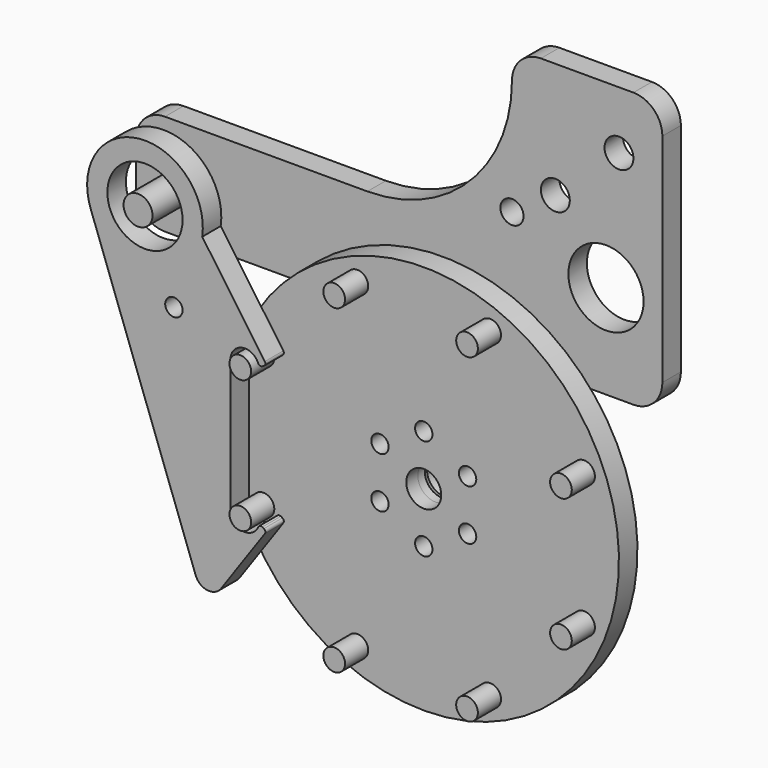
from build123d import *

# Parameters (mm, degrees)
F0_R          = 67.5
F0_R_2        = 6.05
F1_DEPTH      = 5
F1_DEPTH_BACK = 3
F2_R          = 3.75
F3_DEPTH      = 10
F6_ANGLE      = 22.5
F5_R          = 5
F5_R_2        = 4
F5_R_3        = 13
F7_DEPTH      = 8
F9_R          = 3
F9_R_2        = 13
F10_DEPTH     = 8
F13_R         = 3
F14_DEPTH     = 25
F15_R         = 5
F16_DEPTH     = 29


with BuildPart() as f1:
    # F0 (on Front) → F1 (new body, two sides)
    with BuildSketch(Plane.XZ) as f1_sk:
        Circle(F0_R)
        Circle(F0_R_2, mode=Mode.SUBTRACT)
    extrude(amount=F1_DEPTH)
    extrude(f1_sk.sketch, amount=-F1_DEPTH_BACK)

    # F2 (on face) → F3 (join)
    with BuildSketch(Plane.XZ.offset(5)):
        with Locations((0, 60)):
            Circle(F2_R)
        with Locations((-42.426407, 42.426407)):
            Circle(F2_R)
        with Locations((-60, 0)):
            Circle(F2_R)
        with Locations((-42.426407, -42.426407)):
            Circle(F2_R)
        with Locations((0, -60)):
            Circle(F2_R)
        with Locations((42.426407, -42.426407)):
            Circle(F2_R)
        with Locations((60, 0)):
            Circle(F2_R)
        with Locations((42.426407, 42.426407)):
            Circle(F2_R)
    extrude(amount=F3_DEPTH)


with BuildPart() as f1_1:
    # F6: moved
    add(f1.part.rotate(Axis((0, 22.649996, 0), (0, 1, 0)), F6_ANGLE))


with BuildPart() as f7:
    # F5 (on face) → F7 (new body)
    with BuildSketch(Plane.XZ.offset(5)):
        with BuildLine():
            ThreePointArc((22.5, 127.5), (7.855339, 92.144661), (-27.5, 77.5))
            Line((-27.5, 77.5), (-97.5, 77.5))
            ThreePointArc((-97.5, 77.5), (-104.571068, 74.571068), (-107.5, 67.5))
            Line((-107.5, 67.5), (-107.5, 52.5))
            ThreePointArc((-107.5, 52.5), (-104.571068, 45.428932), (-97.5, 42.5))
            Line((-97.5, 42.5), (-75.623611, 42.5))
            Line((-75.623611, 42.5), (64.5, 42.5))
            ThreePointArc((64.5, 42.5), (71.571068, 45.428932), (74.5, 52.5))
            Line((74.5, 52.5), (74.5, 127.5))
            ThreePointArc((74.5, 127.5), (71.571068, 134.571068), (64.5, 137.5))
            Line((64.5, 137.5), (32.5, 137.5))
            ThreePointArc((32.5, 137.5), (25.428932, 134.571068), (22.5, 127.5))
        make_face()
        with Locations((-90, 60)):
            Circle(F5_R, mode=Mode.SUBTRACT)
        with Locations((22.5, 87.5)):
            Circle(F5_R_2, mode=Mode.SUBTRACT)
        with Locations((55, 75)):
            Circle(F5_R_3, mode=Mode.SUBTRACT)
        with Locations((37.5, 97.5)):
            Circle(F5_R, mode=Mode.SUBTRACT)
        with Locations((59.5, 117.5)):
            Circle(F5_R, mode=Mode.SUBTRACT)
    extrude(amount=-F7_DEPTH)


with BuildPart() as f7_1:
    # F8: moved
    add(f7.part.moved(Location((0, 10, 0))))


with BuildPart() as f10:
    # F9 (on face) → F10 (new body)
    with BuildSketch(Plane.XZ.offset(5)):
        with BuildLine():
            Line((-48.554099, 26.213094), (-70.206198, 57.135495))
            ThreePointArc((-70.206198, 57.135495), (-92.049858, 79.894675), (-108.793852, 53.159597))
            Line((-108.793852, 53.159597), (-72.467141, -46.647223))
            ThreePointArc((-72.467141, -46.647223), (-68.421309, -49.894346), (-63.672917, -47.805004))
            Line((-63.672917, -47.805004), (-48.554099, -26.213094))
            ThreePointArc((-48.554099, -26.213094), (-48.396955, -25.423078), (-48.873251, -24.773493))
            Line((-48.873251, -24.773493), (-49.418088, -24.458931))
            ThreePointArc((-49.418088, -24.458931), (-50.233711, -24.376072), (-50.837202, -24.930965))
            ThreePointArc((-50.837202, -24.930965), (-56.438294, -27.858855), (-60.432772, -22.961006))
            Line((-60.432772, -22.961006), (-60.432772, 22.961006))
            ThreePointArc((-60.432772, 22.961006), (-56.438294, 27.858855), (-50.837202, 24.930965))
            ThreePointArc((-50.837202, 24.930965), (-50.233711, 24.376072), (-49.418088, 24.458931))
            Line((-49.418088, 24.458931), (-48.873251, 24.773493))
            ThreePointArc((-48.873251, 24.773493), (-48.396955, 25.423078), (-48.554099, 26.213094))
        make_face()
        with Locations((-80, 32.5)):
            Circle(F9_R, mode=Mode.SUBTRACT)
        with Locations((-90, 60)):
            Circle(F9_R_2, mode=Mode.SUBTRACT)
    extrude(amount=F10_DEPTH)


with BuildPart() as f12:
    # F11 (on Top) → F12 (revolve)
    with BuildSketch(Plane.XY):
        Polygon((-35, 4), (-6.05, 4), (-6.05, 16), (-11.05, 16), (-11.05, 9), (-35, 9), align=None)
    revolve(axis=Axis((0, 5.664475, 0), (0, 1, 0)))


with BuildPart() as f14_tool:
    # F13 (on face) → F14 (new body)
    with BuildSketch(Plane(origin=(0, 9, 0), x_dir=(-1, 0, 0), z_dir=(0, 1, 0))):
        with Locations((0, 17.5)):
            Circle(F13_R)
        with Locations((-15.155445, 8.75)):
            Circle(F13_R)
        with Locations((-15.155445, -8.75)):
            Circle(F13_R)
        with Locations((0, -17.5)):
            Circle(F13_R)
        with Locations((15.155445, -8.75)):
            Circle(F13_R)
        with Locations((15.155445, 8.75)):
            Circle(F13_R)
    extrude(amount=-F14_DEPTH)


with BuildPart() as f1_2:
    add(f1_1.part)

    # F14: cut by f14_tool
    add(f14_tool.part, mode=Mode.SUBTRACT)


with BuildPart() as f12_1:
    add(f12.part)

    # F14: cut by f14_tool
    add(f14_tool.part, mode=Mode.SUBTRACT)


with BuildPart() as f16:
    # F15 (on face) → F16 (new body)
    with BuildSketch(Plane(origin=(0, 13, 0), x_dir=(-1, 0, 0), z_dir=(0, 1, 0))):
        with Locations((90, 60)):
            Circle(F15_R)
    extrude(amount=-F16_DEPTH)


solid = Compound([f7_1.part, f10.part, f1_2.part, f12_1.part, f16.part])
